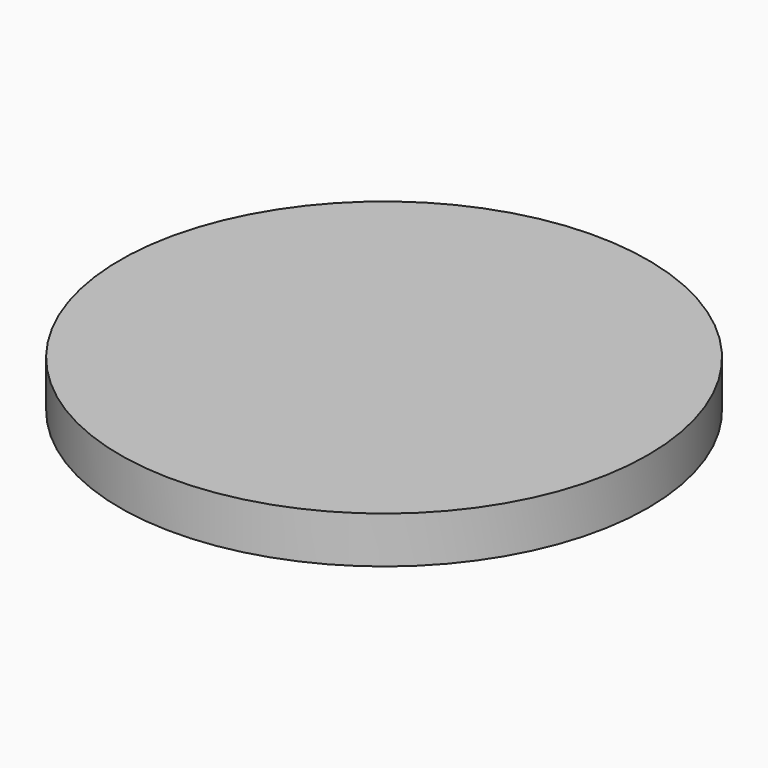
from build123d import *

# Parameters (mm, degrees)
F0_R     = 34
F1_DEPTH = 6
F2_W     = 4.1
F2_H     = 2.7
F4_R     = 5
F5_DEPTH = 2


with BuildPart() as f1:
    # F0 (on Top) → F1 (new body)
    with BuildSketch(Plane.XY):
        Circle(F0_R)
    extrude(amount=F1_DEPTH)

    # F2 (on Right) → F3 (revolve, cut)
    with BuildSketch(Plane.YZ):
        with Locations((2.05, 1.35)):
            Rectangle(F2_W, F2_H)
    revolve(axis=Axis((0, 0, 1.35), (0, 0, -1)), mode=Mode.SUBTRACT)

    # F4 (on face) → F5 (cut)
    with BuildSketch(Plane(origin=(0, 0, 2.7), x_dir=(1, 0, 0), z_dir=(0, 0, -1))):
        Circle(F4_R)
    extrude(amount=-F5_DEPTH, mode=Mode.SUBTRACT)


solid = f1.part
